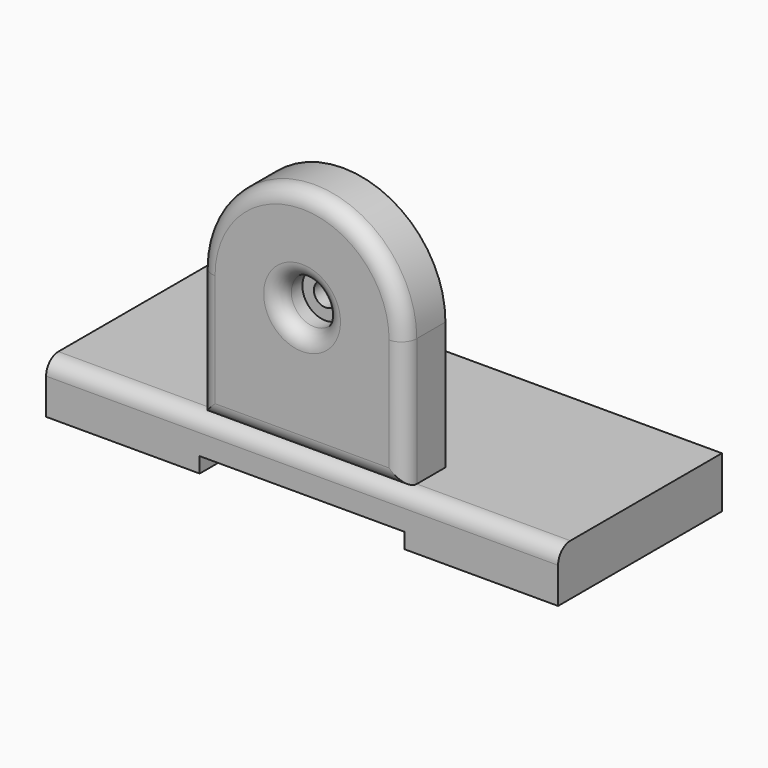
from build123d import *

# Parameters (mm, degrees)
F0_W     = 100
F0_H     = 40
F1_DEPTH = 10
F3_DEPTH = 10
F4_W     = 40
F4_H     = 3
F5_DEPTH = 40.001
F6_R     = 2.25
F7_DEPTH = 40.001
F8_R     = 4.5
F9_DEPTH = 5.7
F10_R    = 3
F11_R    = 3


with BuildPart() as f1:
    # F0 (on Top) → F1 (new body)
    with BuildSketch(Plane.XY):
        with Locations((-50, 20)):
            Rectangle(F0_W, F0_H)
    extrude(amount=F1_DEPTH)

    # F4 (on face) → F5 (cut, through all)
    with BuildSketch(Plane.XZ):
        with Locations((-50, 1.5)):
            Rectangle(F4_W, F4_H)
    extrude(amount=-F5_DEPTH, mode=Mode.SUBTRACT)

    # F11
    f11_edges = [f1.edges().sort_by_distance(p)[0] for p in [
        (-50, 0, 10),
    ]]
    fillet(f11_edges, radius=F11_R)


with BuildPart() as f3:
    # F2 (on face) → F3 (new body)
    with BuildSketch(Plane.XZ):
        with BuildLine():
            Line((-70, 35), (-70, 10))
            Line((-70, 10), (-30, 10))
            Line((-30, 10), (-30, 35))
            ThreePointArc((-30, 35), (-50, 55), (-70, 35))
        make_face()
    extrude(amount=-F3_DEPTH)

    # F6 (on face) → F7 (cut, through all)
    with BuildSketch(Plane.XZ):
        with Locations((-50, 35)):
            Circle(F6_R)
    extrude(amount=-F7_DEPTH, mode=Mode.SUBTRACT)

    # F8 (on face) → F9 (cut)
    with BuildSketch(Plane.XZ):
        with Locations((-50, 35)):
            Circle(F8_R)
    extrude(amount=-F9_DEPTH, mode=Mode.SUBTRACT)

    # F10
    f10_edges = [f3.edges().sort_by_distance(p)[0] for p in [
        (-70, 0, 22.5),
        (-50, 0, 55),
        (-50, 0, 10),
        (-30, 0, 22.5),
        (-54.5, 0, 35),
    ]]
    fillet(f10_edges, radius=F10_R)


solid = Compound([f1.part, f3.part])
